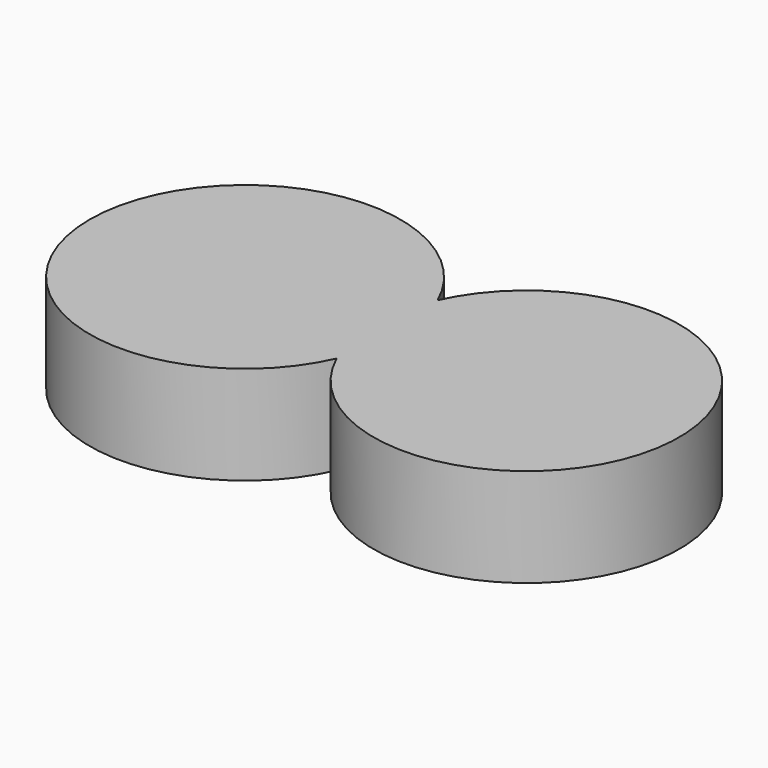
from build123d import *

# Parameters (mm, degrees)
F1_DEPTH = 25.4


with BuildPart() as f1:
    # F0 (on Top) → F1 (new body)
    with BuildSketch(Plane.XY):
        with BuildLine():
            ThreePointArc((0, 32.520413), (-76.683424, 16.260207), (0, 0))
            ThreePointArc((0, 0), (75.312635, 16.260207), (0, 32.520413))
        make_face()
    extrude(amount=F1_DEPTH)


solid = f1.part
